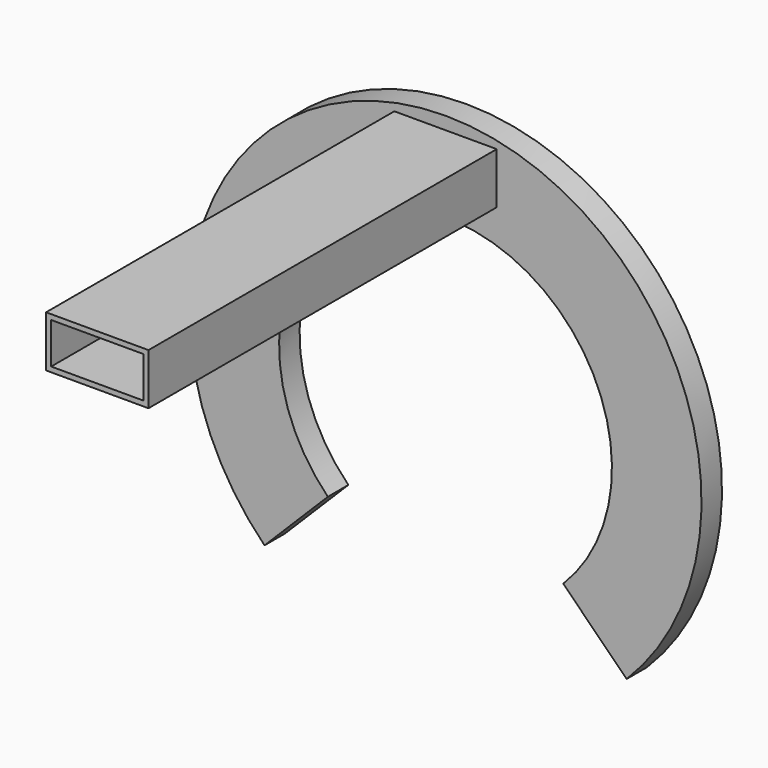
from build123d import *

# Parameters (mm, degrees)
F1_DEPTH = 10
F2_W     = 40
F2_H     = 20
F2_W_2   = 36
F2_H_2   = 16
F3_DEPTH = 180


with BuildPart() as f1:
    # F0 (on Front) → F1 (new body)
    with BuildSketch(Plane.XZ):
        with BuildLine():
            Line((45.975077, -45.948801), (70.730887, -70.690463))
            ThreePointArc((70.730887, -70.690463), (-0.028584, 99.999996), (-70.690463, -70.730887))
            Line((-70.690463, -70.730887), (-45.948801, -45.975077))
            ThreePointArc((-45.948801, -45.975077), (-0.018579, 64.999997), (45.975077, -45.948801))
        make_face()
    extrude(amount=F1_DEPTH)

    # F2 (on Front) → F3 (join)
    with BuildSketch(Plane.XZ):
        with Locations((0, 84.999997)):
            Rectangle(F2_W, F2_H)
        with Locations((0, 84.999997)):
            Rectangle(F2_W_2, F2_H_2, mode=Mode.SUBTRACT)
    extrude(amount=F3_DEPTH)


solid = f1.part
